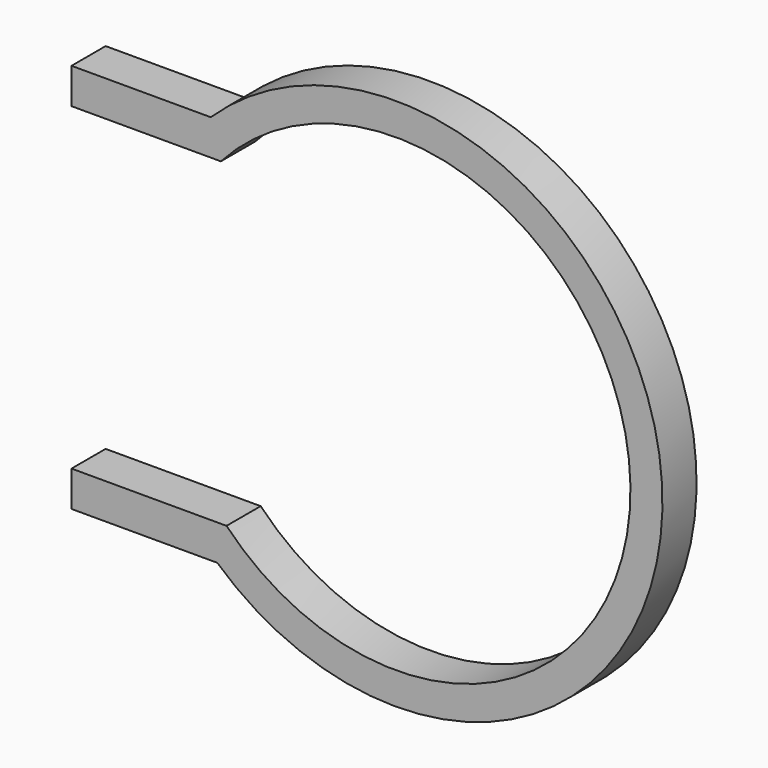
from build123d import *

# Parameters (mm, degrees)
F1_DEPTH = 6


with BuildPart() as f1:
    # F0 (on Front) → F1 (new body)
    with BuildSketch(Plane.XZ):
        with BuildLine():
            Line((-33, 22), (-28, 22))
            Line((-28, 22), (-11.997795, 22))
            ThreePointArc((-11.997795, 22), (45.593738, 0.586613), (-11.200224, -22.860429))
            Line((-11.200224, -22.860429), (-28, -22.860429))
            Line((-28, -22.860429), (-33, -22.860429))
            Line((-33, -22.860429), (-33, -27.860429))
            Line((-33, -27.860429), (-12.501774, -27.860429))
            ThreePointArc((-12.501774, -27.860429), (50.093643, 0.631035), (-13.425075, 27))
            Line((-13.425075, 27), (-33, 27))
            Line((-33, 27), (-33, 22))
        make_face()
    extrude(amount=F1_DEPTH)


solid = f1.part
